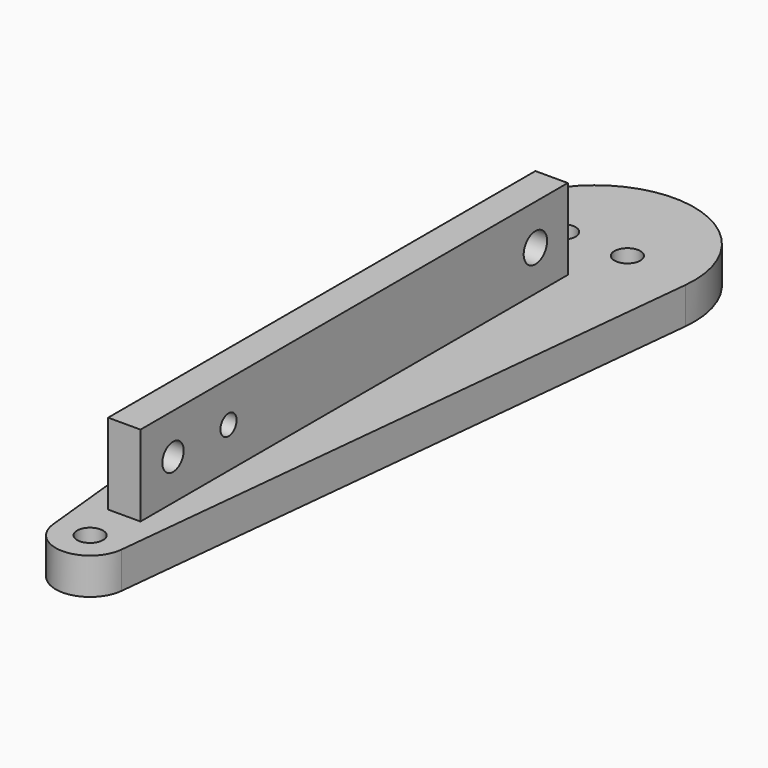
from build123d import *

# Parameters (mm, degrees)
F0_R     = 2.032
F1_DEPTH = 5.715
F2_W     = 83.82
F2_H     = 12.7
F2_R     = 2.0955
F2_R_2   = 1.5875
F2_R_3   = 2.296673
F3_DEPTH = 2.54


with BuildPart() as f1:
    # F0 (on Top) → F1 (new body)
    with BuildSketch(Plane.XY):
        with BuildLine():
            Line((-15.475456, 42.854359), (-5.369036, -55.16359))
            ThreePointArc((-5.369036, -55.16359), (0, -60.0075), (5.369036, -55.16359))
            Line((5.369036, -55.16359), (15.475456, 42.854359))
            ThreePointArc((15.475456, 42.854359), (0, 60.0075), (-15.475456, 42.854359))
        make_face()
        with Locations((0, -54.61)):
            Circle(F0_R, mode=Mode.SUBTRACT)
        with Locations((-5.08, 44.45)):
            Circle(F0_R, mode=Mode.SUBTRACT)
        with Locations((5.08, 44.45)):
            Circle(F0_R, mode=Mode.SUBTRACT)
    extrude(amount=-F1_DEPTH)

    # F2 (on Right) → F3 (join, symmetric)
    with BuildSketch(Plane.YZ):
        with Locations((-5.986101, 6.35)):
            Rectangle(F2_W, F2_H)
        with Locations((-41.516703, 6.35)):
            Circle(F2_R, mode=Mode.SUBTRACT)
        with Locations((-30.626114, 6.35)):
            Circle(F2_R_2, mode=Mode.SUBTRACT)
        with Locations((29.573899, 6.35)):
            Circle(F2_R_3, mode=Mode.SUBTRACT)
    extrude(amount=F3_DEPTH, both=True)


solid = f1.part
